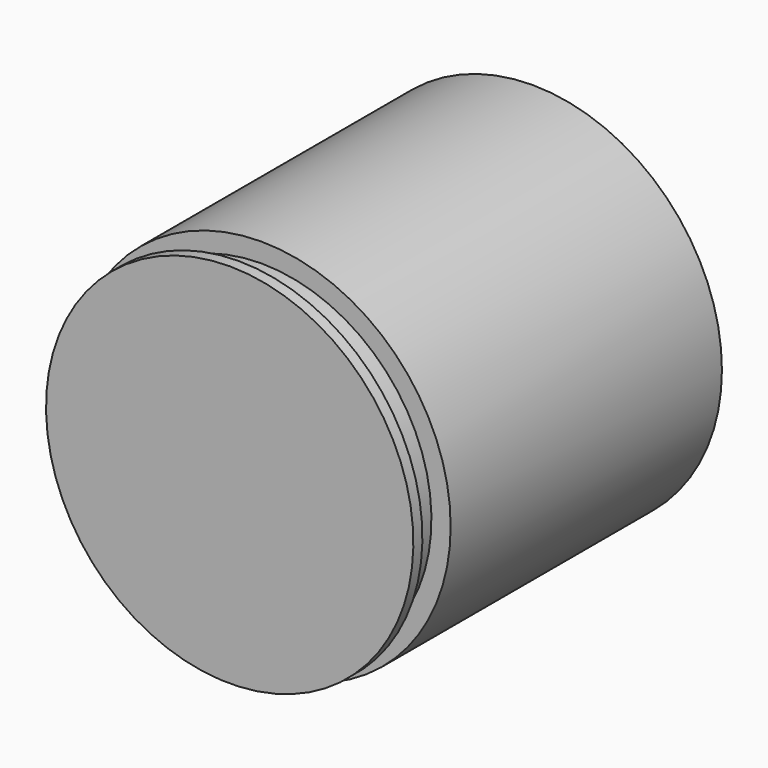
from build123d import *


with BuildPart() as f2:
    # F1 (on face) → F2 (revolve)
    with BuildSketch(Plane.YZ):
        Polygon((0, 35), (0, 0), (20.204075, 0), (26.879636, 11.11), (36.879636, 11.11), (67, 28.5), (67, 35), align=None)
    revolve(axis=Axis((0, 35.295283, 0), (0, 1, 0)))

    # F3 (on Right) → F4 (revolve, cut)
    with BuildSketch(Plane.YZ):
        Polygon((7, 33.5), (68.52591, 33.5), (69.647816, 44.953279), (0, 44.953279), (0, 32.5), (2, 32.5), (2, 30.1), (7, 30.1), align=None)
    revolve(axis=Axis((0, 56.397552, 0), (0, 1, 0)), mode=Mode.SUBTRACT)


solid = f2.part
